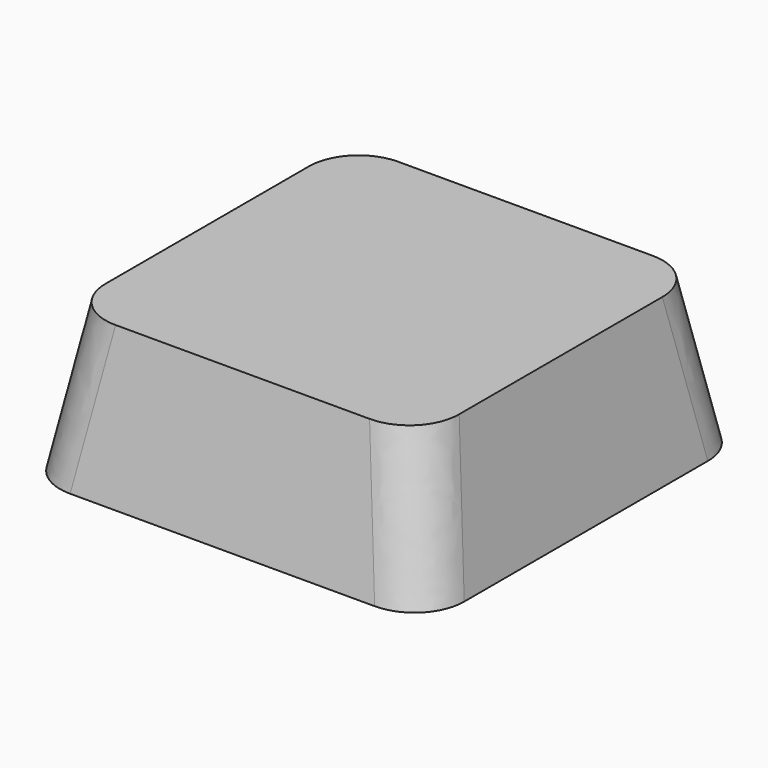
from build123d import *

# Parameters (mm, degrees)
SKETCH003_W = 16
SKETCH003_H = 16
SKETCH004_W = 14
SKETCH004_H = 14
SKETCH_W    = 14.5
SKETCH_H    = 14.1
SKETCH005_W = 12.7
SKETCH005_H = 13.1
SKETCH006_W = 1
SKETCH006_H = 3
PAD_DEPTH   = 4
FILLET_R    = 2
FILLET001_R = 1
FILLET002_R = 0.5


with BuildPart() as part:
    # Sketch003 → AdditiveLoft section 0
    with BuildSketch(Plane.XY):
        Rectangle(SKETCH003_W, SKETCH003_H)
    # Sketch004 → AdditiveLoft section 1
    with BuildSketch(Plane.XY.offset(5.8)):
        Rectangle(SKETCH004_W, SKETCH004_H)
    loft()

    # Sketch (on Face1 of AdditiveLoft) → SubtractiveLoft section 0
    with BuildSketch(Plane(origin=(0, 0, 0), x_dir=(1, 0, 0), z_dir=(0, 0, -1))):
        Rectangle(SKETCH_W, SKETCH_H)
    # Sketch005 → SubtractiveLoft section 1
    with BuildSketch(Plane.XY.offset(3.1)):
        Rectangle(SKETCH005_W, SKETCH005_H)
    loft(mode=Mode.SUBTRACT)

    # Sketch006 (on Face11 of SubtractiveLoft) → Pad (new body)
    with BuildSketch(Plane(origin=(0, 0, 3.1), x_dir=(1, 0, 0), z_dir=(0, 0, -1))):
        with Locations((-2.7, 0)):
            Rectangle(SKETCH006_W, SKETCH006_H)
    pad = extrude(amount=PAD_DEPTH)

    # Mirrored: Pad across Sketch006 V_Axis
    add(pad.mirror(Plane(origin=(0, 0, 3.1), x_dir=(0, 0, -1), z_dir=(1, 0, 0))))

    # Fillet
    fillet_edges = [part.edges().sort_by_distance(p)[0] for p in [
        (-7.5, -7.5, 2.9),
        (-7.5, 7.5, 2.9),
        (7.5, 7.5, 2.9),
        (7.5, -7.5, 2.9),
    ]]
    fillet(fillet_edges, radius=FILLET_R)

    # Fillet001
    fillet001_edges = [part.edges().sort_by_distance(p)[0] for p in [
        (-6.8, -6.8, 1.55),
        (-6.8, 6.8, 1.55),
        (6.8, -6.8, 1.55),
        (6.8, 6.8, 1.55),
    ]]
    fillet(fillet001_edges, radius=FILLET001_R)

    # Fillet002
    fillet002_edges = [part.edges().sort_by_distance(p)[0] for p in [
        (-2.2, 0, 3.1),
        (-2.7, -1.5, 3.1),
        (2.7, -1.5, 3.1),
        (3.2, 0, 3.1),
        (2.7, 1.5, 3.1),
        (-2.7, 1.5, 3.1),
        (2.2, 0, 3.1),
        (-3.2, 0, 3.1),
    ]]
    fillet(fillet002_edges, radius=FILLET002_R)


solid = part.part
